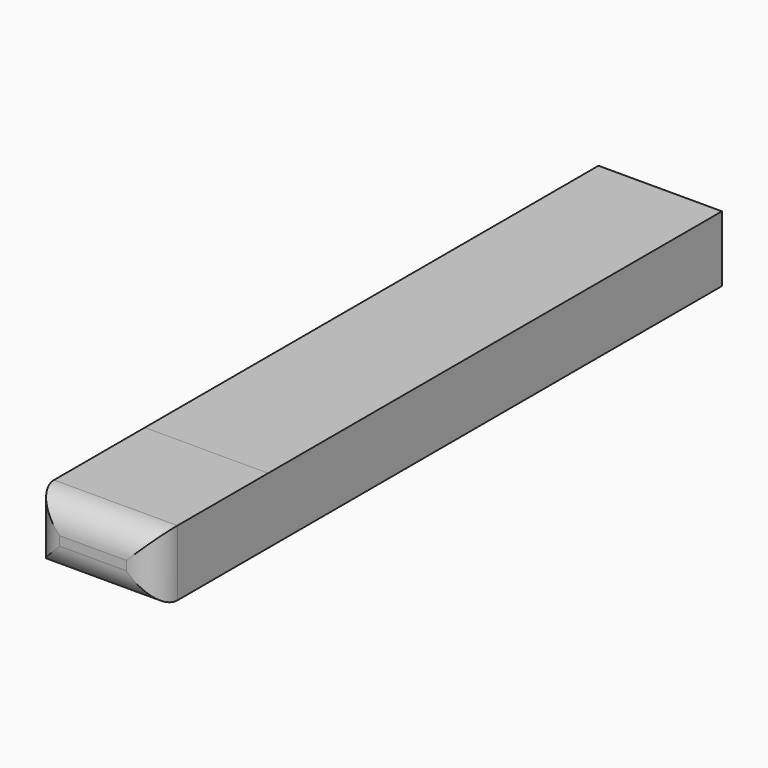
from build123d import *

# Parameters (mm, degrees)
F0_W      = 22.108026
F0_H      = 11.790947
F1_DEPTH  = 127
F1_FACE_W = 22.108026
F1_FACE_H = 11.790948
F2_DEPTH  = 101.6
F3_R      = 5.08


with BuildPart() as f1:
    # F0 (on Front) → F1 (new body)
    with BuildSketch(Plane.XZ):
        with Locations((-11.054013, 5.895473)):
            Rectangle(F0_W, F0_H)
    extrude(amount=F1_DEPTH)

    # F1_face (on face) → F2 (join)
    with BuildSketch(Plane(origin=(-11.054013, 0, 5.895474), x_dir=(1, 0, 0), z_dir=(0, 1, 0))):
        Rectangle(F1_FACE_W, F1_FACE_H)
    extrude(amount=-F2_DEPTH)

    # F3
    f3_edges = [f1.edges().sort_by_distance(p)[0] for p in [
        (-11.054013, -127, 11.790947),
        (-22.108026, -127, 5.895474),
        (0, -127, 5.895474),
        (-11.054013, -127, 0),
    ]]
    fillet(f3_edges, radius=F3_R)


solid = f1.part
